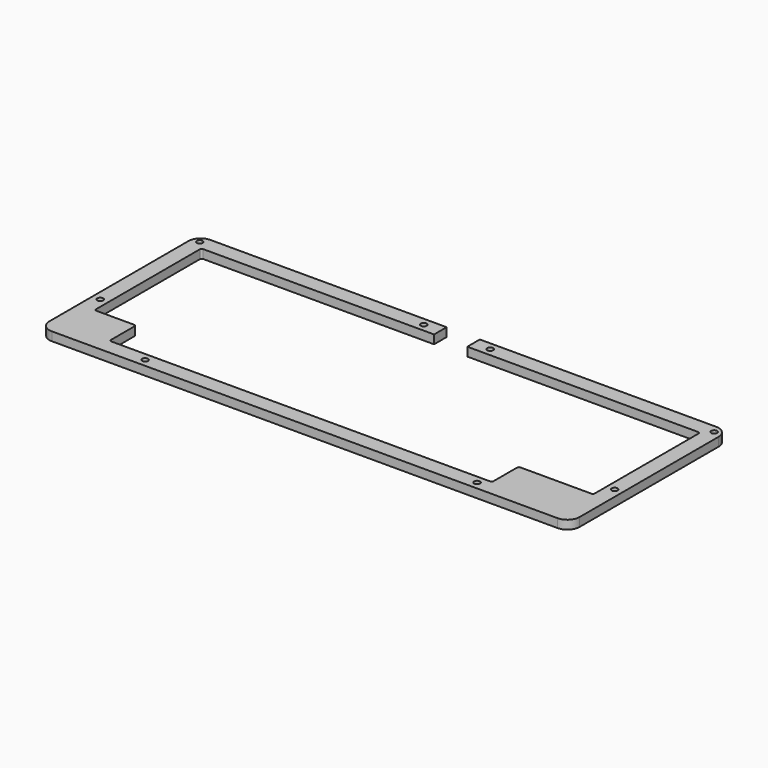
from build123d import *

# Parameters (mm, degrees)
PAD001_DEPTH  = 5
FILLET004_R   = 7
FILLET005_R   = 1
FILLET006_R   = 1.2
SKETCH014_R   = 1.7
HOLE003_DEPTH = 25


with BuildPart() as part:
    # Sketch001 → Pad001 (new body)
    with BuildSketch(Plane.XY):
        Polygon((-9.525, 56.825), (-9.525, 47.825), (-143.075, 47.825), (-143.075, -28.775), (-119.2625, -28.775), (-119.2625, -47.825), (100.2125, -47.825), (100.2125, -28.775), (143.075, -28.775), (143.075, 47.825), (9.525, 47.825), (9.525, 56.825), (152.075, 56.825), (152.075, -56.825), (-152.075, -56.825), (-152.075, 56.825), align=None)
    extrude(amount=-PAD001_DEPTH)

    # Fillet004
    fillet004_edges = [part.edges().sort_by_distance(p)[0] for p in [
        (-152.075, 56.825, -2.5),
        (-152.075, -56.825, -2.5),
        (152.075, 56.825, -2.5),
        (152.075, -56.825, -2.5),
    ]]
    fillet(fillet004_edges, radius=FILLET004_R)

    # Fillet005
    fillet005_edges = [part.edges().sort_by_distance(p)[0] for p in [
        (-143.075, 47.825, -2.5),
        (-143.075, -28.775, -2.5),
        (-119.2625, -47.825, -2.5),
        (100.2125, -47.825, -2.5),
        (143.075, -28.775, -2.5),
        (143.075, 47.825, -2.5),
    ]]
    fillet(fillet005_edges, radius=FILLET005_R)

    # Fillet006
    fillet006_edges = [part.edges().sort_by_distance(p)[0] for p in [
        (100.2125, -28.775, -2.5),
        (-119.2625, -28.775, -2.5),
    ]]
    fillet(fillet006_edges, radius=FILLET006_R)

    # Sketch014 (on Face1 of Fillet006) → Hole003 (cut)
    with BuildSketch(Plane.XY):
        with Locations((147.575, 52.325)):
            Circle(SKETCH014_R)
        with Locations((147.575, -19.05)):
            Circle(SKETCH014_R)
        with Locations((95.25, -52.325)):
            Circle(SKETCH014_R)
        with Locations((-95.25, -52.325)):
            Circle(SKETCH014_R)
        with Locations((-147.575, -19.05)):
            Circle(SKETCH014_R)
        with Locations((-147.575, 52.325)):
            Circle(SKETCH014_R)
        with Locations((-19.05, 52.325)):
            Circle(SKETCH014_R)
        with Locations((19.05, 52.325)):
            Circle(SKETCH014_R)
    extrude(amount=-HOLE003_DEPTH, mode=Mode.SUBTRACT)


solid = part.part
